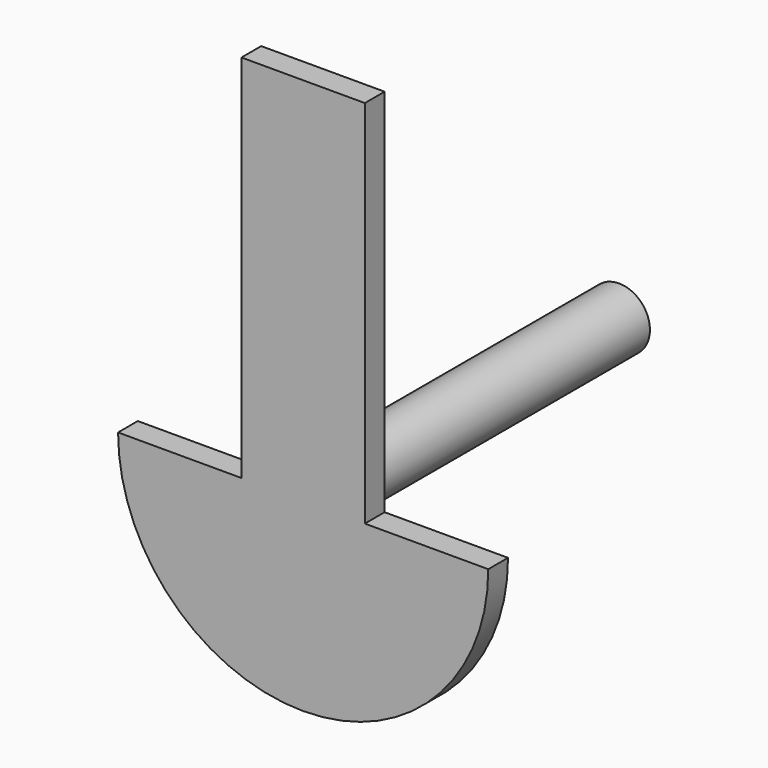
from build123d import *

# Parameters (mm, degrees)
F0_R     = 3.175
F1_DEPTH = 38.1
F3_DEPTH = 2.54


with BuildPart() as f1:
    # F0 (on Front) → F1 (new body)
    with BuildSketch(Plane.XZ):
        Circle(F0_R)
    extrude(amount=-F1_DEPTH)

    # F2 (on face) → F3 (join)
    with BuildSketch(Plane.XZ):
        with BuildLine():
            Line((-6.35, 0), (-19.05, 0))
            ThreePointArc((-19.05, 0), (0, -19.05), (19.05, 0))
            Line((19.05, 0), (6.35, 0))
            Line((6.35, 0), (6.35, 38.1))
            Line((6.35, 38.1), (-6.35, 38.1))
            Line((-6.35, 38.1), (-6.35, 0))
        make_face()
    extrude(amount=F3_DEPTH)


solid = f1.part
